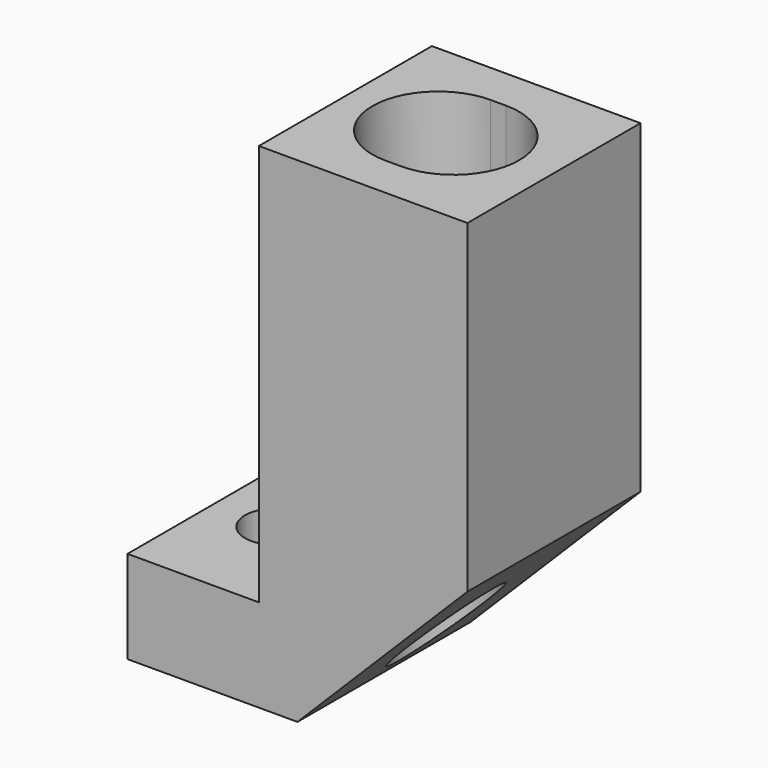
from build123d import *

# Parameters (mm, degrees)
PAD002_DEPTH     = 7
POCKET003_DEPTH  = 5
HOLE_D           = 3.4
HOLE_CBORE_D     = 6.1
HOLE_CBORE_DEPTH = 20
SKETCH007_R      = 2
POCKET004_DEPTH  = 6


with BuildPart() as part:
    # Sketch005 → Pad002 (new body, symmetric)
    with BuildSketch(Plane.XZ.offset(2)):
        Polygon((43, -13), (43, -19), (54, -19), (65, -8), (65, 13), (51.500001, 13), (51.500001, -13), align=None)
    extrude(amount=PAD002_DEPTH, both=True)

    # Sketch008 → Pocket003 (cut)
    with BuildSketch(Plane(origin=(0, 0, 13), x_dir=(-1, 0, 0), z_dir=(0, 0, 1))):
        with BuildLine():
            ThreePointArc((-57.501297, -2.25), (-53.251297, 2), (-57.501297, 6.25))
            Line((-57.501297, 6.25), (-58.500001, 6.25))
            ThreePointArc((-58.500001, 6.25), (-62.750001, 2), (-58.500001, -2.25))
            Line((-58.500001, -2.25), (-57.501297, -2.25))
        make_face()
    extrude(amount=-POCKET003_DEPTH, mode=Mode.SUBTRACT)

    # Hole (through all)
    with Locations(Plane(origin=(0, 0, -19), x_dir=(1, 0, 0), z_dir=(0, 0, -1))):
        with Locations((58, 2)):
            CounterBoreHole(HOLE_D / 2, HOLE_CBORE_D / 2, HOLE_CBORE_DEPTH)

    # Sketch007 (on Face2 of Pad002) → Pocket004 (cut)
    with BuildSketch(Plane(origin=(0, 0, -19), x_dir=(1, 0, 0), z_dir=(0, 0, -1))):
        with Locations((47, 2)):
            Circle(SKETCH007_R)
    extrude(amount=-POCKET004_DEPTH, mode=Mode.SUBTRACT)


with BuildPart() as part_1:
    # Body001 placement: moved
    add(part.part.moved(Location((0, -40, 0))))


solid = part_1.part
